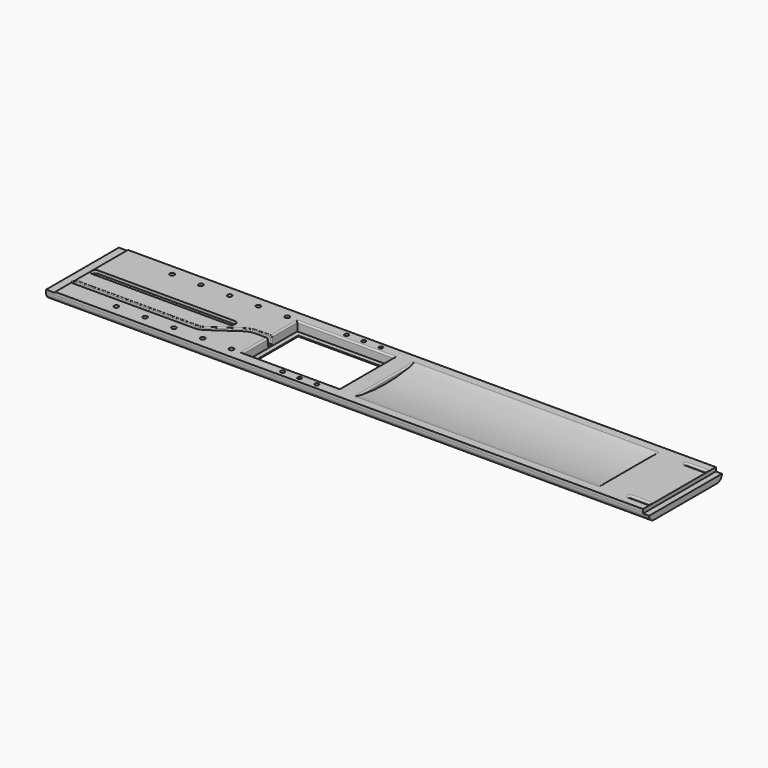
from build123d import *

# Parameters (mm, degrees)
PAD_DEPTH            = 398
SKETCH001_W          = 57.5
SKETCH001_H          = 38.5
POCKET_DEPTH         = 0.001
POCKET_DEPTH_BACK    = -6.601
SKETCH002_W          = 64
SKETCH002_H          = 45
POCKET001_DEPTH      = 6
SKETCH003_R          = 116
POCKET002_DEPTH      = 160
POCKET003_DEPTH      = 2
POCKET004_DEPTH      = 5
SKETCH006_R          = 1.5
POCKET005_DEPTH      = 0.001
POCKET005_DEPTH_BACK = -6.601
SKETCH007_R          = 1.3
POCKET006_DEPTH      = 6.601
POCKET006_DEPTH_BACK = 0.001
POCKET007_DEPTH      = 6.601
POCKET008_DEPTH      = 3.5
POCKET009_DEPTH      = 2.8
PAD001_DEPTH         = 2.8
POCKET010_DEPTH      = 2
SKETCH014_W          = 68
SKETCH014_H          = 10
POCKET011_DEPTH      = 6
SKETCH015_W          = 68
SKETCH015_H          = 12
POCKET012_DEPTH      = 6
FILLET_R             = 1
FILLET001_R          = 0.5
FILLET002_R          = 1
FILLET003_R          = 1
FILLET004_R          = 1
FILLET005_R          = 1


with BuildPart() as part:
    # Sketch → Pad (new body)
    with BuildSketch(Plane.YZ):
        with BuildLine():
            Line((-30, 6.6), (30, 6.6))
            Line((30, 6.6), (30, 4.6))
            ThreePointArc((26, 0), (29.04795, 1.388739), (30, 4.6))
            Line((26, 0), (-26, 0))
            ThreePointArc((-30, 4.6), (-29.04795, 1.388739), (-26, 0))
            Line((-30, 6.6), (-30, 4.6))
        make_face()
    extrude(amount=PAD_DEPTH)

    # Sketch001 → Pocket (cut, two sides)
    with BuildSketch(Plane.XY) as pocket_sk:
        with Locations((155.75, 0)):
            Rectangle(SKETCH001_W, SKETCH001_H)
    extrude(amount=-POCKET_DEPTH, mode=Mode.SUBTRACT)
    extrude(pocket_sk.sketch, amount=-POCKET_DEPTH_BACK, mode=Mode.SUBTRACT)

    # Sketch002 → Pocket001 (cut)
    with BuildSketch(Plane.XY.offset(6.6)):
        with Locations((155.75, 0)):
            Rectangle(SKETCH002_W, SKETCH002_H)
    extrude(amount=-POCKET001_DEPTH, mode=Mode.SUBTRACT)

    # Sketch003 → Pocket002 (cut)
    with BuildSketch(Plane.YZ.offset(200)):
        with Locations((0, 120)):
            Circle(SKETCH003_R)
    extrude(amount=POCKET002_DEPTH, mode=Mode.SUBTRACT)

    # Sketch004 → Pocket003 (cut)
    with BuildSketch(Plane.XY.offset(6.6)):
        with BuildLine():
            ThreePointArc((8.5, 2.5), (6, 0), (8.5, -2.5))
            Line((8.5, -2.5), (98.5, -2.5))
            ThreePointArc((98.5, -2.5), (101, 0), (98.5, 2.5))
            Line((8.5, 2.5), (98.5, 2.5))
        make_face()
    extrude(amount=-POCKET003_DEPTH, mode=Mode.SUBTRACT)

    # Sketch005 → Pocket004 (cut)
    with BuildSketch(Plane.XY.offset(6.6)):
        with BuildLine():
            Line((125.165215, 1.501368), (115.420051, 1.501368))
            ThreePointArc((115.420051, 1.501368), (110.97846, 0.822463), (106.94248, -1.152253))
            Line((106.94248, -1.152253), (90.921319, -12.271491))
            ThreePointArc((87.003456, -13.497847), (89.056113, -13.184095), (90.921319, -12.271491))
            Line((87.003456, -13.497847), (6.5, -13.497847))
            ThreePointArc((6.5, -13.497847), (5, -14.997847), (6.5, -16.497847))
            Line((6.5, -16.497847), (87.003456, -16.497847))
            ThreePointArc((87.003456, -16.497847), (89.952285, -16.047114), (92.631824, -14.736074))
            Line((92.631824, -14.736074), (108.652985, -3.616836))
            ThreePointArc((115.165215, -1.501368), (111.75323, -2.079273), (108.652985, -3.616836))
            Line((115.165215, -1.501368), (125.165215, -1.501368))
            Line((125.165215, -1.501368), (125.165215, 1.501368))
        make_face()
    extrude(amount=-POCKET004_DEPTH, mode=Mode.SUBTRACT)

    # Sketch006 → Pocket005 (cut, two sides)
    with BuildSketch(Plane.XY) as pocket005_sk:
        with Locations((116.75, -23)):
            Circle(SKETCH006_R)
        with Locations((97.75, -23)):
            Circle(SKETCH006_R)
        with Locations((78.75, -23)):
            Circle(SKETCH006_R)
        with Locations((59.75, -23)):
            Circle(SKETCH006_R)
        with Locations((40.75, -23)):
            Circle(SKETCH006_R)
        with Locations((116.75, 23)):
            Circle(SKETCH006_R)
        with Locations((97.75, 23)):
            Circle(SKETCH006_R)
        with Locations((78.75, 23)):
            Circle(SKETCH006_R)
        with Locations((59.75, 23)):
            Circle(SKETCH006_R)
        with Locations((40.75, 23)):
            Circle(SKETCH006_R)
    extrude(amount=-POCKET005_DEPTH, mode=Mode.SUBTRACT)
    extrude(pocket005_sk.sketch, amount=-POCKET005_DEPTH_BACK, mode=Mode.SUBTRACT)

    # Sketch007 → Pocket006 (cut, two sides)
    with BuildSketch(Plane.XY) as pocket006_sk:
        with Locations((175.75, -26.4)):
            Circle(SKETCH007_R)
        with Locations((164.45, -26.4)):
            Circle(SKETCH007_R)
        with Locations((153.15, -26.4)):
            Circle(SKETCH007_R)
        with Locations((175.75, 26.4)):
            Circle(SKETCH007_R)
        with Locations((164.45, 26.4)):
            Circle(SKETCH007_R)
        with Locations((153.15, 26.4)):
            Circle(SKETCH007_R)
    extrude(amount=POCKET006_DEPTH, mode=Mode.SUBTRACT)
    extrude(pocket006_sk.sketch, amount=-POCKET006_DEPTH_BACK, mode=Mode.SUBTRACT)

    # Sketch008 → Pocket007 (cut, through all)
    with BuildSketch(Plane.XY):
        with BuildLine():
            ThreePointArc((380.1, -22.25), (379.15, -23.2), (380.1, -24.15))
            Line((380.1, -24.15), (392.4, -24.15))
            ThreePointArc((392.4, -24.15), (393.35, -23.2), (392.4, -22.25))
            Line((380.1, -22.25), (392.4, -22.25))
        make_face()
        with BuildLine():
            ThreePointArc((380.1, 24.15), (379.15, 23.2), (380.1, 22.25))
            Line((380.1, 22.25), (392.4, 22.25))
            ThreePointArc((392.4, 22.25), (393.35, 23.2), (392.4, 24.15))
            Line((380.1, 24.15), (392.4, 24.15))
        make_face()
    extrude(amount=POCKET007_DEPTH, mode=Mode.SUBTRACT)

    # Sketch009 → Pocket008 (cut)
    with BuildSketch(Plane.XY):
        with BuildLine():
            Line((393.35, 23.2), (393.35, 4.2))
            ThreePointArc((392.4, 3.25), (393.071751, 3.528249), (393.35, 4.2))
            Line((392.4, 3.25), (382.117985, 3.25))
            ThreePointArc((381.167985, 4.2), (381.446233, 3.528249), (382.117985, 3.25))
            Line((381.167985, 4.2), (381.167985, 23.2))
            ThreePointArc((382.117985, 24.15), (381.446233, 23.871751), (381.167985, 23.2))
            Line((382.117985, 24.15), (392.4, 24.15))
            ThreePointArc((393.35, 23.2), (393.071751, 23.871751), (392.4, 24.15))
        make_face()
    pocket008 = extrude(amount=POCKET008_DEPTH, mode=Mode.SUBTRACT)

    # Mirrored: Pocket008 across Sketch009 H_Axis
    add(pocket008.mirror(Plane.ZX), mode=Mode.SUBTRACT)

    # Sketch011 → Pocket009 (cut)
    with BuildSketch(Plane.XY):
        with BuildLine():
            Line((105.770494, 17), (105.770494, -17))
            ThreePointArc((104.070494, -18.7), (105.272576, -18.202081), (105.770494, -17))
            Line((104.070494, -18.7), (8, -18.7))
            ThreePointArc((6.3, -17.000001), (6.797919, -18.202082), (8, -18.7))
            Line((6.3, -17.000001), (6.3, 17))
            ThreePointArc((8.000017, 18.7), (6.797924, 18.202088), (6.3, 17))
            Line((8.000017, 18.7), (104.070494, 18.7))
            ThreePointArc((105.770494, 17), (105.272575, 18.202082), (104.070494, 18.7))
        make_face()
    extrude(amount=POCKET009_DEPTH, mode=Mode.SUBTRACT)

    # Sketch012 → Pad001 (join)
    with BuildSketch(Plane.XY):
        with BuildLine():
            ThreePointArc((37.5, 4.77), (32.73, 0), (37.5, -4.77))
            Line((37.5, -4.77), (58.5, -4.77))
            ThreePointArc((58.5, -4.77), (63.27, 0), (58.5, 4.77))
            Line((37.5, 4.77), (58.5, 4.77))
        make_face()
    extrude(amount=PAD001_DEPTH)

    # Sketch013 → Pocket010 (cut)
    with BuildSketch(Plane.XY):
        with BuildLine():
            ThreePointArc((39.5, 3.27), (36.23, 0), (39.5, -3.27))
            Line((39.5, -3.27), (60.5, -3.27))
            ThreePointArc((60.5, -3.27), (63.77, 0), (60.5, 3.27))
            Line((39.5, 3.27), (60.5, 3.27))
        make_face()
    extrude(amount=POCKET010_DEPTH, mode=Mode.SUBTRACT)

    # Sketch014 → Pocket011 (cut)
    with BuildSketch(Plane.YZ):
        with Locations((0, 11)):
            Rectangle(SKETCH014_W, SKETCH014_H)
    extrude(amount=POCKET011_DEPTH, mode=Mode.SUBTRACT)

    # Sketch015 → Pocket012 (cut)
    with BuildSketch(Plane.YZ.offset(400)):
        with Locations((0, 10)):
            Rectangle(SKETCH015_W, SKETCH015_H)
    extrude(amount=-POCKET012_DEPTH, mode=Mode.SUBTRACT)

    # Fillet
    fillet_edges = [part.edges().sort_by_distance(p)[0] for p in [
        (155.75, -22.5, 6.6),
        (123.75, -12.000684, 6.6),
        (123.75, 12.000684, 6.6),
        (155.75, 22.5, 6.6),
        (187.75, 0, 6.6),
    ]]
    fillet(fillet_edges, radius=FILLET_R)

    # Fillet001
    fillet001_edges = [part.edges().sort_by_distance(p)[0] for p in [
        (46.751728, -16.497847, 6.6),
        (46.751728, -13.497847, 6.6),
        (89.056113, -13.184095, 6.6),
        (89.952285, -16.047114, 6.6),
        (98.931899, -6.711872, 6.6),
        (100.642405, -9.176455, 6.6),
        (110.97846, 0.822463, 6.6),
        (111.75323, -2.079273, 6.6),
        (118.957608, -1.501368, 6.6),
        (119.085025, 1.501368, 6.6),
        (5, -14.997847, 6),
    ]]
    fillet(fillet001_edges, radius=FILLET001_R)

    # Fillet002
    fillet002_edges = [part.edges().sort_by_distance(p)[0] for p in [
        (386.25, 22.25, 6.6),
        (379.15, 23.2, 6.6),
        (393.35, 23.2, 6.6),
        (386.25, 24.15, 6.6),
    ]]
    fillet(fillet002_edges, radius=FILLET002_R)

    # Fillet003
    fillet003_edges = [part.edges().sort_by_distance(p)[0] for p in [
        (386.25, -22.25, 6.6),
        (386.25, -24.15, 6.6),
        (393.35, -23.2, 6.6),
        (379.15, -23.2, 6.6),
    ]]
    fillet(fillet003_edges, radius=FILLET003_R)

    # Fillet004
    fillet004_edges = [part.edges().sort_by_distance(p)[0] for p in [
        (360, 0, 6.6),
        (200, 0, 6.6),
    ]]
    fillet(fillet004_edges, radius=FILLET004_R)

    # Fillet005
    fillet005_edges = [part.edges().sort_by_distance(p)[0] for p in [
        (280, -24.422121, 6.6),
        (280, 24.422121, 6.6),
    ]]
    fillet(fillet005_edges, radius=FILLET005_R)


solid = part.part
